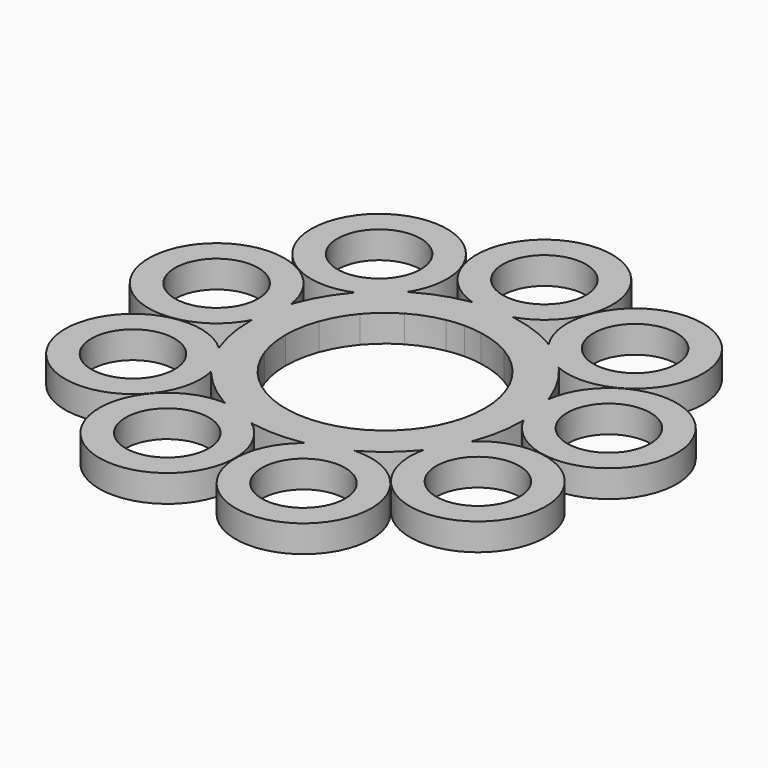
from build123d import *

# Parameters (mm, degrees)
F0_R     = 4.6
F1_DEPTH = 3


with BuildPart() as f1:
    # F0 (on Top) → F1 (new body)
    with BuildSketch(Plane.XY):
        with BuildLine():
            ThreePointArc((8.426489, 7.070664), (7.070664, 8.426489), (5.5, 9.526279))
            ThreePointArc((5.5, 9.526279), (3.762222, 10.336619), (1.91013, 10.832885))
            ThreePointArc((1.91013, 10.832885), (0.958713, 10.958142), (0, 11))
            ThreePointArc((0, 11), (-0.958713, 10.958142), (-1.91013, 10.832885))
            ThreePointArc((-1.91013, 10.832885), (-3.762222, 10.336619), (-5.5, 9.526279))
            ThreePointArc((-5.5, 9.526279), (-7.070664, 8.426489), (-8.426489, 7.070664))
            ThreePointArc((-8.426489, 7.070664), (-9.526279, 5.5), (-10.336619, 3.762222))
            ThreePointArc((-10.336619, 3.762222), (-10.832885, 1.91013), (-11, 0))
            ThreePointArc((-11, 0), (-10.832885, -1.91013), (-10.336619, -3.762222))
            ThreePointArc((-10.336619, -3.762222), (-9.526279, -5.5), (-8.426489, -7.070664))
            ThreePointArc((-8.426489, -7.070664), (-7.070664, -8.426489), (-5.5, -9.526279))
            ThreePointArc((-5.5, -9.526279), (-3.762222, -10.336619), (-1.91013, -10.832885))
            ThreePointArc((-1.91013, -10.832885), (0, -11), (1.91013, -10.832885))
            ThreePointArc((1.91013, -10.832885), (3.762222, -10.336619), (5.5, -9.526279))
            ThreePointArc((5.5, -9.526279), (7.070664, -8.426489), (8.426489, -7.070664))
            ThreePointArc((8.426489, -7.070664), (9.526279, -5.5), (10.336619, -3.762222))
            ThreePointArc((10.336619, -3.762222), (10.832885, -1.91013), (11, 0))
            ThreePointArc((11, 0), (10.832885, 1.91013), (10.336619, 3.762222))
            ThreePointArc((10.336619, 3.762222), (9.526279, 5.5), (8.426489, 7.070664))
        make_face()
        with BuildLine():
            ThreePointArc((4.6, 22), (-3.252691, 25.252691), (0, 17.4))
            ThreePointArc((0, 17.4), (3.252691, 18.747309), (4.6, 22))
        make_face()
        with BuildLine():
            ThreePointArc((2.217213, 14.835227), (0, 29.5), (-2.217213, 14.835227))
            ThreePointArc((-2.217213, 14.835227), (-2.411174, 14.80494), (-2.604723, 14.772116))
            ThreePointArc((-2.604723, 14.772116), (-5.130302, 14.095389), (-7.5, 12.990381))
            ThreePointArc((-7.5, 12.990381), (-7.669365, 12.891115), (-7.837417, 12.78964))
            ThreePointArc((-7.837417, 12.78964), (-18.962234, 22.598311), (-11.234384, 9.939247))
            ThreePointArc((-11.234384, 9.939247), (-11.363498, 9.791369), (-11.490667, 9.641814))
            ThreePointArc((-11.490667, 9.641814), (-12.990381, 7.5), (-14.095389, 5.130302))
            ThreePointArc((-14.095389, 5.130302), (-14.161323, 4.945394), (-14.224832, 4.759638))
            ThreePointArc((-14.224832, 4.759638), (-29.051829, 5.122621), (-14.994862, 0.392582))
            ThreePointArc((-14.994862, 0.392582), (-14.998715, 0.196308), (-15, 0))
            ThreePointArc((-15, 0), (-14.772116, -2.604723), (-14.095389, -5.130302))
            ThreePointArc((-14.095389, -5.130302), (-14.027041, -5.314332), (-13.95629, -5.497451))
            ThreePointArc((-13.95629, -5.497451), (-25.547749, -14.75), (-11.739077, -9.337776))
            ThreePointArc((-11.739077, -9.337776), (-11.615867, -9.490608), (-11.490667, -9.641814))
            ThreePointArc((-11.490667, -9.641814), (-9.641814, -11.490667), (-7.5, -12.990381))
            ThreePointArc((-7.5, -12.990381), (-7.32935, -13.087422), (-7.157445, -13.182222))
            ThreePointArc((-7.157445, -13.182222), (-10.089594, -27.720932), (-2.990448, -14.698885))
            ThreePointArc((-2.990448, -14.698885), (-2.797825, -14.736763), (-2.604723, -14.772116))
            ThreePointArc((-2.604723, -14.772116), (0, -15), (2.604723, -14.772116))
            ThreePointArc((2.604723, -14.772116), (2.797825, -14.736763), (2.990448, -14.698885))
            ThreePointArc((2.990448, -14.698885), (10.089594, -27.720932), (7.157445, -13.182222))
            ThreePointArc((7.157445, -13.182222), (7.32935, -13.087422), (7.5, -12.990381))
            ThreePointArc((7.5, -12.990381), (9.641814, -11.490667), (11.490667, -9.641814))
            ThreePointArc((11.490667, -9.641814), (11.615867, -9.490608), (11.739077, -9.337776))
            ThreePointArc((11.739077, -9.337776), (25.547749, -14.75), (13.95629, -5.497451))
            ThreePointArc((13.95629, -5.497451), (14.027041, -5.314332), (14.095389, -5.130302))
            ThreePointArc((14.095389, -5.130302), (14.772116, -2.604723), (15, 0))
            ThreePointArc((15, 0), (14.998715, 0.196308), (14.994862, 0.392582))
            ThreePointArc((14.994862, 0.392582), (29.051829, 5.122621), (14.224832, 4.759638))
            ThreePointArc((14.224832, 4.759638), (14.161323, 4.945394), (14.095389, 5.130302))
            ThreePointArc((14.095389, 5.130302), (12.990381, 7.5), (11.490667, 9.641814))
            ThreePointArc((11.490667, 9.641814), (11.363498, 9.791369), (11.234384, 9.939247))
            ThreePointArc((11.234384, 9.939247), (18.962234, 22.598311), (7.837417, 12.78964))
            ThreePointArc((7.837417, 12.78964), (7.669365, 12.891115), (7.5, 12.990381))
            ThreePointArc((7.5, 12.990381), (5.130302, 14.095389), (2.604723, 14.772116))
            ThreePointArc((2.604723, 14.772116), (2.411174, 14.80494), (2.217213, 14.835227))
        make_face()
        with Locations((-7.524443, -20.673238)):
            Circle(F0_R, mode=Mode.SUBTRACT)
        with Locations((-19.052559, -11)):
            Circle(F0_R, mode=Mode.SUBTRACT)
        with Locations((7.524443, -20.673238)):
            Circle(F0_R, mode=Mode.SUBTRACT)
        with BuildLine():
            ThreePointArc((1.91013, 10.832885), (3.762222, 10.336619), (5.5, 9.526279))
            ThreePointArc((5.5, 9.526279), (7.070664, 8.426489), (8.426489, 7.070664))
            ThreePointArc((8.426489, 7.070664), (9.526279, 5.5), (10.336619, 3.762222))
            ThreePointArc((10.336619, 3.762222), (10.832885, 1.91013), (11, 0))
            ThreePointArc((11, 0), (10.832885, -1.91013), (10.336619, -3.762222))
            ThreePointArc((10.336619, -3.762222), (9.526279, -5.5), (8.426489, -7.070664))
            ThreePointArc((8.426489, -7.070664), (7.070664, -8.426489), (5.5, -9.526279))
            ThreePointArc((5.5, -9.526279), (3.762222, -10.336619), (1.91013, -10.832885))
            ThreePointArc((1.91013, -10.832885), (0, -11), (-1.91013, -10.832885))
            ThreePointArc((-1.91013, -10.832885), (-3.762222, -10.336619), (-5.5, -9.526279))
            ThreePointArc((-5.5, -9.526279), (-7.070664, -8.426489), (-8.426489, -7.070664))
            ThreePointArc((-8.426489, -7.070664), (-9.526279, -5.5), (-10.336619, -3.762222))
            ThreePointArc((-10.336619, -3.762222), (-10.832885, -1.91013), (-11, 0))
            ThreePointArc((-11, 0), (-10.832885, 1.91013), (-10.336619, 3.762222))
            ThreePointArc((-10.336619, 3.762222), (-9.526279, 5.5), (-8.426489, 7.070664))
            ThreePointArc((-8.426489, 7.070664), (-7.070664, 8.426489), (-5.5, 9.526279))
            ThreePointArc((-5.5, 9.526279), (-3.762222, 10.336619), (-1.91013, 10.832885))
            ThreePointArc((-1.91013, 10.832885), (-0.958713, 10.958142), (0, 11))
            ThreePointArc((0, 11), (0.958713, 10.958142), (1.91013, 10.832885))
        make_face(mode=Mode.SUBTRACT)
        with Locations((19.052559, -11)):
            Circle(F0_R, mode=Mode.SUBTRACT)
        with Locations((-21.665771, 3.82026)):
            Circle(F0_R, mode=Mode.SUBTRACT)
        with Locations((-14.141327, 16.852978)):
            Circle(F0_R, mode=Mode.SUBTRACT)
        with Locations((21.665771, 3.82026)):
            Circle(F0_R, mode=Mode.SUBTRACT)
        with BuildLine():
            ThreePointArc((4.6, 22), (3.252691, 18.747309), (0, 17.4))
            ThreePointArc((0, 17.4), (-3.252691, 25.252691), (4.6, 22))
        make_face(mode=Mode.SUBTRACT)
        with Locations((14.141327, 16.852978)):
            Circle(F0_R, mode=Mode.SUBTRACT)
    extrude(amount=F1_DEPTH)


solid = f1.part
